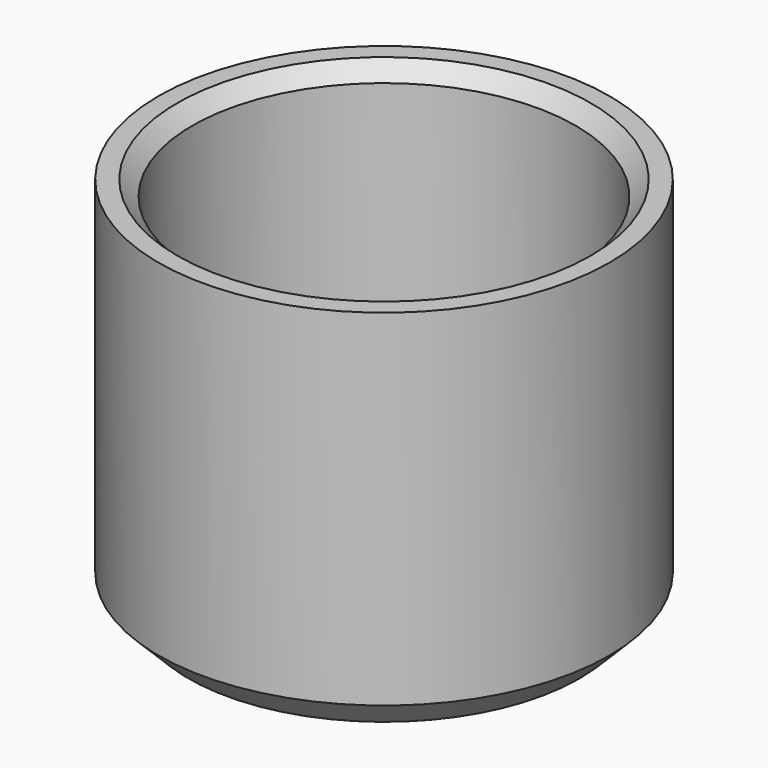
from build123d import *

# Parameters (mm, degrees)
SKETCH_R        = 15
PAD_DEPTH       = 25
SKETCH001_R     = 12.75
POCKET_DEPTH    = 20
CHAMFER_SIZE    = 2
CHAMFER001_SIZE = 1


with BuildPart() as part:
    # Sketch (on XY_Plane of Origin) → Pad (new body)
    with BuildSketch(Plane.XY):
        Circle(SKETCH_R)
    extrude(amount=PAD_DEPTH)

    # Sketch001 (on Face3 of Pad) → Pocket (cut)
    with BuildSketch(Plane.XY.offset(25)):
        Circle(SKETCH001_R)
    extrude(amount=-POCKET_DEPTH, mode=Mode.SUBTRACT)

    # Chamfer
    chamfer_edges = [part.edges().sort_by_distance(p)[0] for p in [
        (-15, 0, 0),
    ]]
    chamfer(chamfer_edges, length=CHAMFER_SIZE)

    # Chamfer001
    chamfer001_edges = [part.edges().sort_by_distance(p)[0] for p in [
        (-12.75, 0, 25),
    ]]
    chamfer(chamfer001_edges, length=CHAMFER001_SIZE)


solid = part.part
